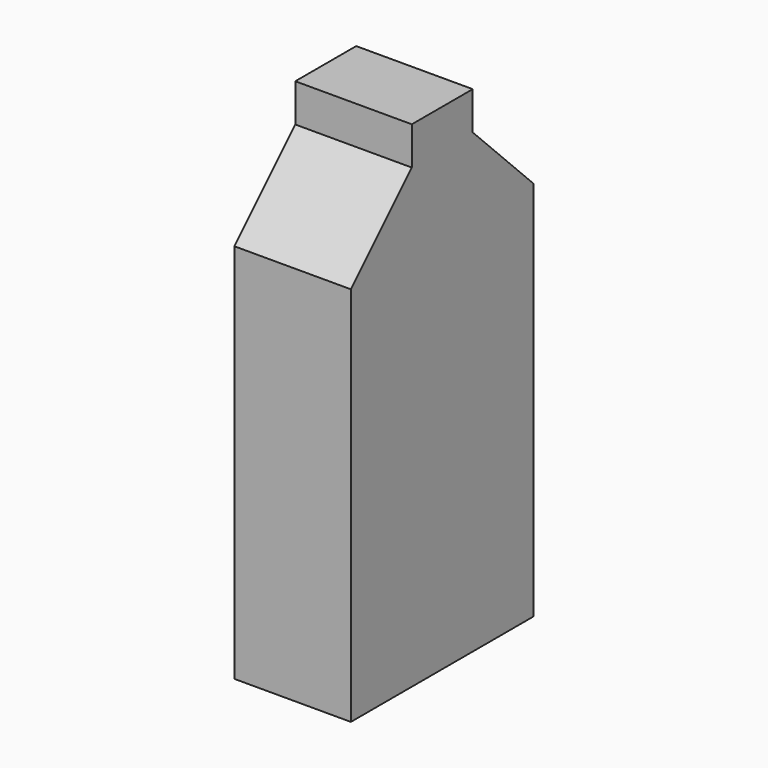
from build123d import *

# Parameters (mm, degrees)
F1_DEPTH = 38.862


with BuildPart() as f1:
    # F0 (on Right) → F1 (new body)
    with BuildSketch(Plane.YZ):
        Polygon((-38.1, -82.830815), (38.1, -82.830815), (38.1, 44.169185), (12.69508, 69.574105), (12.69508, 82.274105), (0, 82.274105), (-12.69508, 82.274105), (-12.69508, 69.574105), (-38.1, 44.169185), align=None)
    extrude(amount=F1_DEPTH)


solid = f1.part
